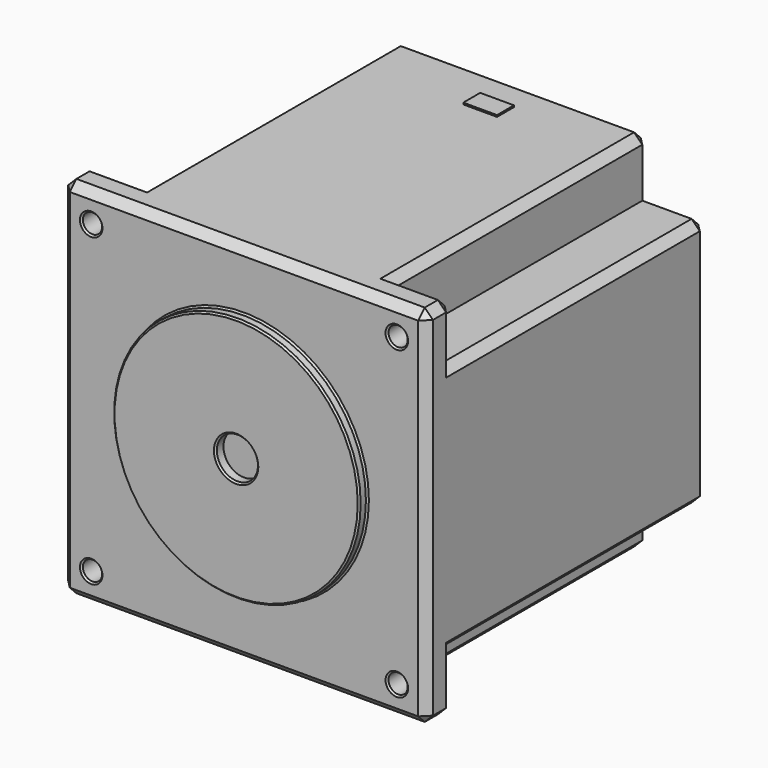
from build123d import *

# Parameters (mm, degrees)
F0_W      = 56.388
F0_H      = 56.388
F0_R      = 1.4859
F0_R_2    = 19.05
F0_R_3    = 3.175
F1_DEPTH  = 54.102
F2_DEPTH  = 1.524
F3_DEPTH  = 20.32
F5_DEPTH  = 12.7
F6_W      = 8.89
F6_H      = 8.89
F7_DEPTH  = 49.022
F8_SIZE   = 1.27
F9_SIZE   = 0.254
F9_2_SIZE = 0.254
F10_W     = 5.2164322697
F10_H     = 3.265157342
F11_DEPTH = 0.254


with BuildPart() as f1:
    # F0 (on Front) → F1 (new body)
    with BuildSketch(Plane.XZ):
        Rectangle(F0_W, F0_H)
        with Locations((-23.622, -23.622)):
            Circle(F0_R, mode=Mode.SUBTRACT)
        with Locations((23.622, -23.622)):
            Circle(F0_R, mode=Mode.SUBTRACT)
        with Locations((-23.622, 23.622)):
            Circle(F0_R, mode=Mode.SUBTRACT)
        Circle(F0_R_2, mode=Mode.SUBTRACT)
        with Locations((23.622, 23.622)):
            Circle(F0_R, mode=Mode.SUBTRACT)
        Circle(F0_R_2)
        Circle(F0_R_3, mode=Mode.SUBTRACT)
        Circle(F0_R_3)
    extrude(amount=-F1_DEPTH)

    # F0 (on Front) → F2 (join)
    with BuildSketch(Plane.XZ):
        Circle(F0_R_2)
        Circle(F0_R_3, mode=Mode.SUBTRACT)
    extrude(amount=F2_DEPTH)

    # F6 (on face) → F7 (cut)
    with BuildSketch(Plane(origin=(0, 54.102, 0), x_dir=(-1, 0, 0), z_dir=(0, 1, 0))):
        with Locations((-23.749, 23.749)):
            Rectangle(F6_W, F6_H)
        with Locations((23.749, 23.749)):
            Rectangle(F6_W, F6_H)
        with Locations((23.749, -23.749)):
            Rectangle(F6_W, F6_H)
        with Locations((-23.749, -23.749)):
            Rectangle(F6_W, F6_H)
    extrude(amount=-F7_DEPTH, mode=Mode.SUBTRACT)

    # F8
    f8_edges = [f1.edges().sort_by_distance(p)[0] for p in [
        (-28.194, 0, 0),
        (-28.194, 2.54, -28.194),
        (-28.194, 5.08, -23.749),
        (-28.194, 29.591, -19.304),
        (-28.194, 54.102, 0),
        (-28.194, 29.591, 19.304),
        (-28.194, 5.08, 23.749),
        (-28.194, 2.54, 28.194),
        (0, 0, 28.194),
        (-23.749, 5.08, 28.194),
        (-19.304, 29.591, 28.194),
        (0, 54.102, 28.194),
        (19.304, 29.591, 28.194),
        (23.749, 5.08, 28.194),
        (28.194, 2.54, 28.194),
        (28.194, 0, 0),
        (28.194, 5.08, 23.749),
        (28.194, 29.591, 19.304),
        (28.194, 54.102, 0),
        (28.194, 29.591, -19.304),
        (28.194, 5.08, -23.749),
        (28.194, 2.54, -28.194),
        (0, 0, -28.194),
        (23.749, 5.08, -28.194),
        (19.304, 29.591, -28.194),
        (0, 54.102, -28.194),
        (-19.304, 29.591, -28.194),
        (-23.749, 5.08, -28.194),
        (23.749, 54.102, -19.304),
        (19.304, 54.102, -23.749),
        (-19.304, 54.102, -23.749),
        (-23.749, 54.102, -19.304),
        (-23.749, 54.102, 19.304),
        (-19.304, 54.102, 23.749),
        (19.304, 54.102, 23.749),
        (23.749, 54.102, 19.304),
    ]]
    chamfer(f8_edges, length=F8_SIZE)

    # F9
    f9_edges = [f1.edges().sort_by_distance(p)[0] for p in [
        (-25.1079, 5.08, 23.622),
        (-25.1079, 5.08, -23.622),
        (22.1361, 5.08, 23.622),
        (22.1361, 5.08, -23.622),
        (22.1361, 0, -23.622),
        (22.1361, 0, 23.622),
        (-25.1079, 0, 23.622),
        (-25.1079, 0, -23.622),
        (-19.05, 0, 0),
        (-19.05, -1.524, 0),
        (-3.175, -1.524, 0),
    ]]
    chamfer(f9_edges, length=F9_SIZE)

    # F10 (on face) → F11 (join)
    with BuildSketch(Plane.XY.offset(28.194)):
        with Locations((0, 47.2612604499)):
            Rectangle(F10_W, F10_H)
    extrude(amount=F11_DEPTH)


with BuildPart() as f3:
    # F0 (on Front) → F3 (new body)
    with BuildSketch(Plane.XZ):
        Circle(F0_R_3)
    extrude(amount=F3_DEPTH)

    # F4 (on face) → F5 (cut)
    with BuildSketch(Plane.XZ.offset(20.32)):
        with BuildLine():
            ThreePointArc((1.7989226109, 2.6162), (0, 3.175), (-1.7989226109, 2.6162))
            Line((-1.7989226109, 2.6162), (1.7989226109, 2.6162))
        make_face()
    extrude(amount=-F5_DEPTH, mode=Mode.SUBTRACT)

    # F9#2
    f9_2_edges = [f3.edges().sort_by_distance(p)[0] for p in [
        (-1.478013, -20.32, -2.81),
        (0, -20.32, 2.6162),
    ]]
    chamfer(f9_2_edges, length=F9_2_SIZE)


solid = f1.part
